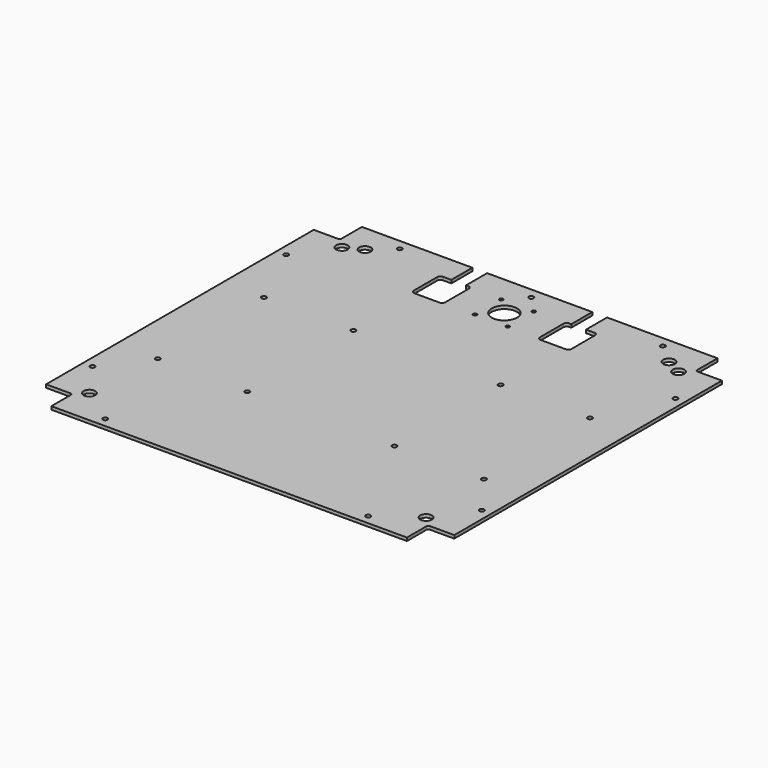
from build123d import *

# Parameters (mm, degrees)
SKETCH_W        = 388
SKETCH_H        = 369
PAD_DEPTH       = 3
SKETCH001_W     = 25
SKETCH001_H     = 26
SKETCH001_H_2   = 25
POCKET_DEPTH    = 1073.914629
SKETCH002_R     = 12
SKETCH002_R_2   = 1.75
POCKET001_DEPTH = 3.001
SKETCH003_R     = 2.25
POCKET002_DEPTH = 3.001
SKETCH004_W     = 30
SKETCH004_H     = 34
POCKET003_DEPTH = 1073.914629
FILLET_R        = 3
SKETCH005_R     = 5.5
POCKET004_DEPTH = 3.001
SKETCH006_R     = 2.25
POCKET005_DEPTH = 1073.914629
FILLET001_R     = 2
SKETCH007_R     = 5.5
POCKET006_DEPTH = 1073.914629


with BuildPart() as part:
    # Sketch → Pad (new body)
    with BuildSketch(Plane.XY):
        with Locations((0, 0.5)):
            Rectangle(SKETCH_W, SKETCH_H)
    extrude(amount=PAD_DEPTH)

    # Sketch001 (on Face6 of Pad) → Pocket (cut, through all)
    with BuildSketch(Plane.XY.offset(3)):
        with Locations((181.5, 172)):
            Rectangle(SKETCH001_W, SKETCH001_H)
        with Locations((181.5, -171.5)):
            Rectangle(SKETCH001_W, SKETCH001_H_2)
    pocket = extrude(amount=-POCKET_DEPTH, mode=Mode.SUBTRACT)

    # Mirrored: Pocket across YZ
    add(pocket.mirror(Plane.YZ), mode=Mode.SUBTRACT)

    # Sketch002 (on Face4 of Mirrored) → Pocket001 (cut, through all)
    with BuildSketch(Plane.XY.offset(3)):
        with Locations((0, 143)):
            Circle(SKETCH002_R)
        with Locations((-15.5, 158.5)):
            Circle(SKETCH002_R_2)
        with Locations((15.5, 158.5)):
            Circle(SKETCH002_R_2)
        with Locations((15.5, 127.5)):
            Circle(SKETCH002_R_2)
        with Locations((-15.5, 127.5)):
            Circle(SKETCH002_R_2)
        with BuildLine():
            Line((-64, 185), (-50, 185))
            Line((-50, 185), (-50, 143))
            ThreePointArc((-64, 143), (-57, 136), (-50, 143))
            Line((-64, 143), (-64, 185))
        make_face()
        with BuildLine():
            Line((50, 185), (64, 185))
            Line((64, 185), (64, 143))
            ThreePointArc((50, 143), (57, 136), (64, 143))
            Line((50, 143), (50, 185))
        make_face()
    extrude(amount=-POCKET001_DEPTH, mode=Mode.SUBTRACT)

    # Sketch003 (on Face4 of Pocket001) → Pocket002 (cut, through all)
    with BuildSketch(Plane.XY.offset(3)):
        with Locations((125, 175)):
            Circle(SKETCH003_R)
        with Locations((185, 115)):
            Circle(SKETCH003_R)
        with Locations((125, -175)):
            Circle(SKETCH003_R)
        with Locations((-125, 175)):
            Circle(SKETCH003_R)
        with Locations((-185, 115)):
            Circle(SKETCH003_R)
        with Locations((-125, -175)):
            Circle(SKETCH003_R)
        with Locations((0, 175)):
            Circle(SKETCH003_R)
        with Locations((-185, -115)):
            Circle(SKETCH003_R)
        with Locations((185, -115)):
            Circle(SKETCH003_R)
    extrude(amount=-POCKET002_DEPTH, mode=Mode.SUBTRACT)

    # Sketch004 (on Face4 of Pocket002) → Pocket003 (cut, through all)
    with BuildSketch(Plane.XY.offset(3)):
        with Locations((-60, 143)):
            Rectangle(SKETCH004_W, SKETCH004_H)
    pocket003 = extrude(amount=-POCKET003_DEPTH, mode=Mode.SUBTRACT)

    # Mirrored001: Pocket003 across YZ
    add(pocket003.mirror(Plane.YZ), mode=Mode.SUBTRACT)

    # Fillet
    fillet_edges = [part.edges().sort_by_distance(p)[0] for p in [
        (-45, 160, 1.5),
        (-45, 126, 1.5),
        (-75, 126, 1.5),
        (-75, 160, 1.5),
        (45, 126, 1.5),
        (75, 126, 1.5),
        (45, 160, 1.5),
        (75, 160, 1.5),
    ]]
    fillet(fillet_edges, radius=FILLET_R)

    # Sketch005 (on Face52 of Fillet) → Pocket004 (cut, through all)
    with BuildSketch(Plane.XY.offset(3)):
        with Locations((-160, 150)):
            Circle(SKETCH005_R)
        with Locations((-160, -150)):
            Circle(SKETCH005_R)
        with Locations((160, 150)):
            Circle(SKETCH005_R)
        with Locations((160, -150)):
            Circle(SKETCH005_R)
    extrude(amount=-POCKET004_DEPTH, mode=Mode.SUBTRACT)

    # Sketch006 (on Face56 of Pocket004) → Pocket005 (cut, through all)
    with BuildSketch(Plane.XY.offset(3)):
        with Locations((70, 51)):
            Circle(SKETCH006_R)
        with Locations((155, 51)):
            Circle(SKETCH006_R)
        with Locations((70, -75)):
            Circle(SKETCH006_R)
        with Locations((155, -75)):
            Circle(SKETCH006_R)
    pocket005 = extrude(amount=-POCKET005_DEPTH, mode=Mode.SUBTRACT)

    # Mirrored002: Pocket005 across YZ
    add(pocket005.mirror(Plane.YZ), mode=Mode.SUBTRACT)

    # Fillet001
    fillet001_edges = [part.edges().sort_by_distance(p)[0] for p in [
        (169, -159, 1.5),
        (-169, -159, 1.5),
        (-169, 159, 1.5),
        (169, 159, 1.5),
    ]]
    fillet(fillet001_edges, radius=FILLET001_R)

    # Sketch007 (on Face1 of Fillet001) → Pocket006 (cut, through all)
    with BuildSketch(Plane(origin=(0, 0, 0), x_dir=(1, 0, 0), z_dir=(0, 0, -1))):
        with Locations((144.5, -158)):
            Circle(SKETCH007_R)
    pocket006 = extrude(amount=-POCKET006_DEPTH, mode=Mode.SUBTRACT)

    # Mirrored003: Pocket006 across YZ
    add(pocket006.mirror(Plane.YZ), mode=Mode.SUBTRACT)


solid = part.part
